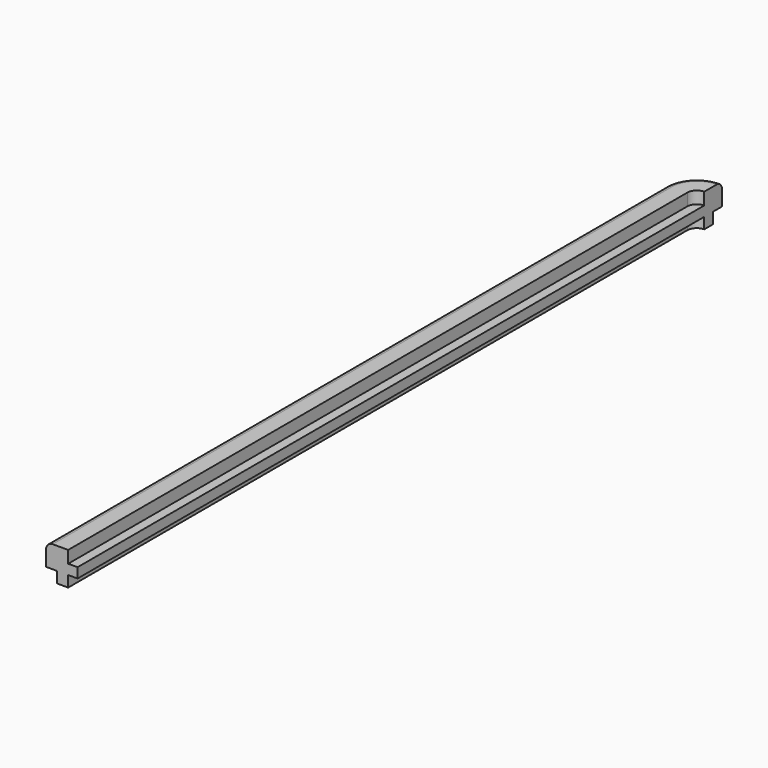
from build123d import *

# Parameters (mm, degrees)
F0_W     = 4.2475935817
F0_H     = 4.5055083651
F0_W_2   = 5
F0_H_2   = 5
F1_DEPTH = 350
F2_ANGLE = 90


with BuildPart() as f1:
    # F0 (on Front) → F1 (new body)
    with BuildSketch(Plane.XZ):
        with BuildLine():
            Line((-43.9187724888, 48.8732061069), (-50.9187724888, 48.8732061069))
            ThreePointArc((-50.9187724888, 48.8732061069), (-53.0400928324, 47.9945264505), (-53.9187724888, 45.8732061069))
            Line((-53.9187724888, 45.8732061069), (-53.9187724888, 38.8732061069))
            Line((-53.9187724888, 38.8732061069), (-48.9187724888, 38.8732061069))
            Line((-48.9187724888, 38.8732061069), (-43.9187724888, 38.8732061069))
            Line((-43.9187724888, 38.8732061069), (-43.9187724888, 43.3787144721))
            Line((-43.9187724888, 43.3787144721), (-43.9187724888, 48.8732061069))
        make_face()
        with Locations((-41.794975698, 41.1259602895)):
            Rectangle(F0_W, F0_H)
        with Locations((-46.4187724888, 36.3732061069)):
            Rectangle(F0_W_2, F0_H_2)
    extrude(amount=F1_DEPTH)

    # F0 (on Front) → F2 (revolve)
    with BuildSketch(Plane.XZ):
        with BuildLine():
            Line((-43.9187724888, 48.8732061069), (-50.9187724888, 48.8732061069))
            ThreePointArc((-50.9187724888, 48.8732061069), (-53.0400928324, 47.9945264505), (-53.9187724888, 45.8732061069))
            Line((-53.9187724888, 45.8732061069), (-53.9187724888, 38.8732061069))
            Line((-53.9187724888, 38.8732061069), (-48.9187724888, 38.8732061069))
            Line((-48.9187724888, 38.8732061069), (-43.9187724888, 38.8732061069))
            Line((-43.9187724888, 38.8732061069), (-43.9187724888, 43.3787144721))
            Line((-43.9187724888, 43.3787144721), (-43.9187724888, 48.8732061069))
        make_face()
        with Locations((-41.794975698, 41.1259602895)):
            Rectangle(F0_W, F0_H)
        with Locations((-46.4187724888, 36.3732061069)):
            Rectangle(F0_W_2, F0_H_2)
    revolve(axis=Axis((-39.6711789072, 0, 41.1259602895), (0, 0, -1)), revolution_arc=F2_ANGLE)


solid = f1.part
